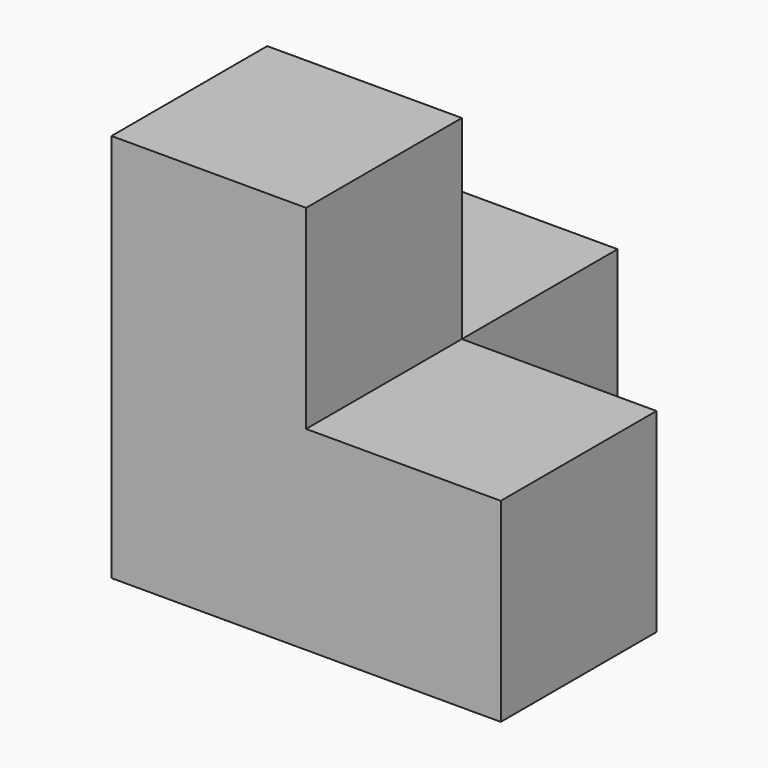
from build123d import *

# Parameters (mm, degrees)
BOX001_W     = 10
BOX001_H     = 10
BOX001_DEPTH = 10
BOX002_W     = 10
BOX002_H     = 10
BOX002_DEPTH = 10
BOX003_W     = 10
BOX003_H     = 10
BOX003_DEPTH = 10
BOX_W        = 10
BOX_H        = 10
BOX_DEPTH    = 10


with BuildPart() as cub001:
    # Box001 → Box001 (new body)
    with BuildSketch(Plane(origin=(10, 0, 0), x_dir=(1, 0, 0), z_dir=(0, 0, 1))):
        with Locations((5, 5)):
            Rectangle(BOX001_W, BOX001_H)
    extrude(amount=BOX001_DEPTH)


with BuildPart() as cub002:
    # Box002 → Box002 (new body)
    with BuildSketch(Plane(origin=(0, 10, 0), x_dir=(1, 0, 0), z_dir=(0, 0, 1))):
        with Locations((5, 5)):
            Rectangle(BOX002_W, BOX002_H)
    extrude(amount=BOX002_DEPTH)


with BuildPart() as cub003:
    # Box003 → Box003 (new body)
    with BuildSketch(Plane.XY.offset(10)):
        with Locations((5, 5)):
            Rectangle(BOX003_W, BOX003_H)
    extrude(amount=BOX003_DEPTH)


with BuildPart() as fusion:
    # Box → Box (new body)
    with BuildSketch(Plane.XY):
        with Locations((5, 5)):
            Rectangle(BOX_W, BOX_H)
    extrude(amount=BOX_DEPTH)

    # Fusion: union Cub001, Cub002, Cub003
    add(cub001.part)
    add(cub002.part)
    add(cub003.part)


solid = fusion.part
